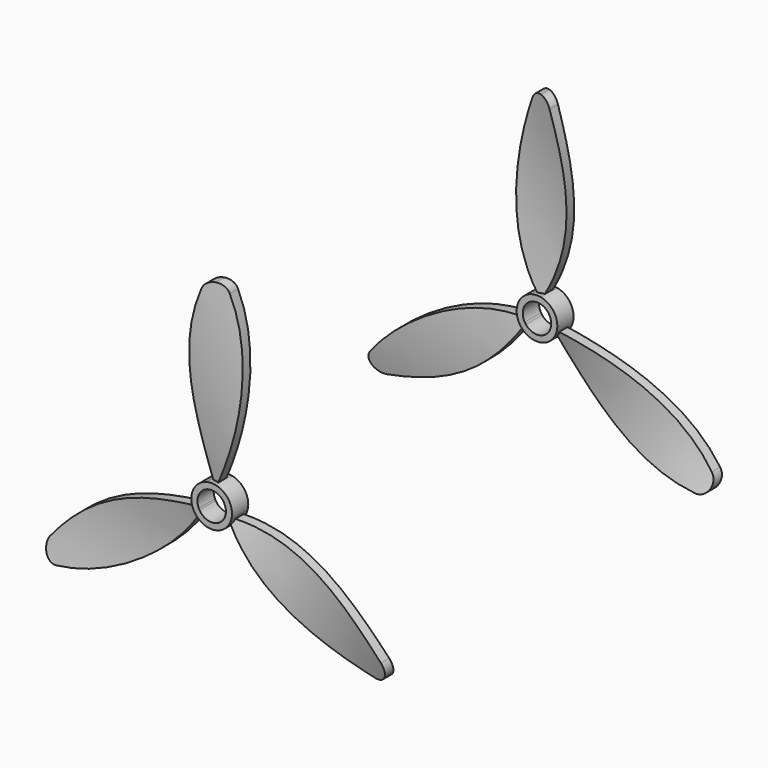
from build123d import *

# Parameters (mm, degrees)
F5_DEPTH = 5
F6_R     = 10
F6_R_2   = 7
F7_DEPTH = 5
F8_COUNT = 3


with BuildPart() as f3:
    # F2 (on offset) → F3 section 0
    with BuildSketch(Plane.XY.offset(100)):
        Polygon((24.353985, -6.183086), (-22.630646, 10.917921), (-24.367251, 6.22919), (22.643912, -10.881474), align=None)
    # F1 (on Top) → F3 section 1
    with BuildSketch(Plane.XY):
        Polygon((22.637265, 10.899735), (-24.347366, -6.201272), (-22.637265, -10.899735), (24.347366, 6.201272), align=None)
    loft()

    # F4 (on Front) → F5 (intersect, symmetric)
    with BuildSketch(Plane.XZ):
        with BuildLine():
            ThreePointArc((-5.581579, 92.201359), (-12.341375, 48.975016), (0, 7))
            ThreePointArc((0, 7), (12.341375, 48.975016), (5.581579, 92.201359))
            ThreePointArc((5.581579, 92.201359), (3.375785, 94.96025), (0, 96))
            ThreePointArc((0, 96), (-3.375785, 94.96025), (-5.581579, 92.201359))
        make_face()
    extrude(amount=F5_DEPTH, both=True, mode=Mode.INTERSECT)

    # F6 (on Front) → F7 (join, symmetric)
    with BuildSketch(Plane.XZ):
        Circle(F6_R)
        Circle(F6_R_2, mode=Mode.SUBTRACT)
    extrude(amount=F7_DEPTH, both=True)


with BuildPart() as f8_1:
    # F8: instance of F3
    add(f3.part.rotate(Axis((0, -5, 0), (0, -1, 0)), 1 * 360 / F8_COUNT))


with BuildPart() as f8_2:
    # F8: instance of F3
    add(f3.part.rotate(Axis((0, -5, 0), (0, -1, 0)), 2 * 360 / F8_COUNT))


with BuildPart() as f10_1:
    # F10: instance of F3
    add(f3.part.mirror(Plane.XZ.offset(100)))


with BuildPart() as f10_2:
    # F10: instance of F8_2
    add(f8_2.part.mirror(Plane.XZ.offset(100)))


with BuildPart() as f10_3:
    # F10: instance of F8_1
    add(f8_1.part.mirror(Plane.XZ.offset(100)))


solid = Compound([f3.part, f8_1.part, f8_2.part, f10_1.part, f10_2.part, f10_3.part])
